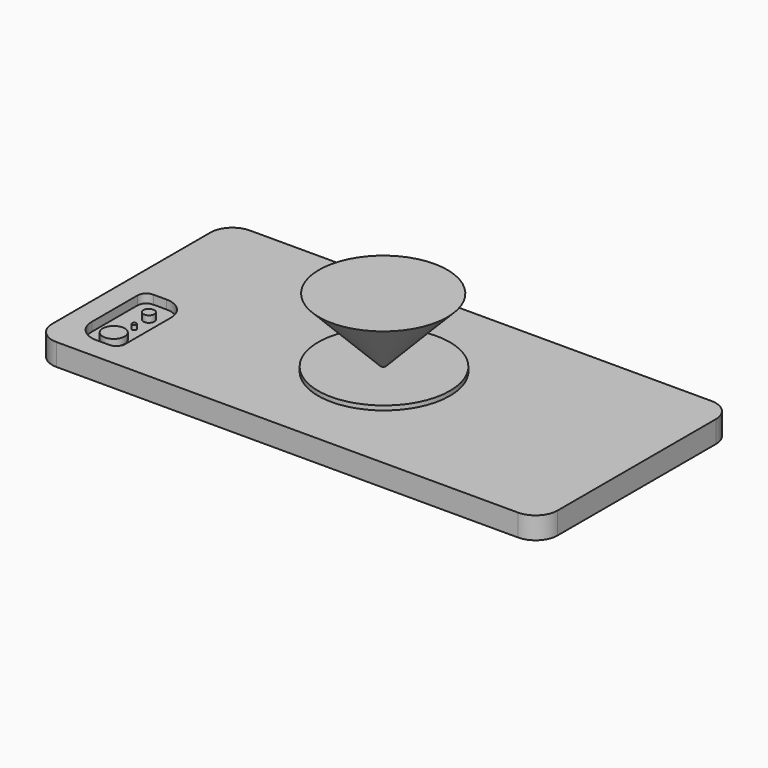
from build123d import *

# Parameters (mm, degrees)
F1_DEPTH = 6.35
F3_DEPTH = 2.54
F4_R     = 3.175
F4_R_2   = 1.5875
F5_DEPTH = 1.905
F6_R     = 0.635
F7_DEPTH = 1.27
F8_R     = 19.05
F9_DEPTH = 1.27


with BuildPart() as f1:
    # F0 (on Top) → F1 (new body)
    with BuildSketch(Plane.XY):
        with BuildLine():
            Line((86.468494, 61.882985), (-46.881506, 61.882985))
            ThreePointArc((-46.881506, 61.882985), (-51.371634, 60.023113), (-53.231506, 55.532985))
            Line((-53.231506, 55.532985), (-53.231506, -1.617015))
            ThreePointArc((-53.231506, -1.617015), (-51.371634, -6.107143), (-46.881506, -7.967015))
            Line((-46.881506, -7.967015), (86.468494, -7.967015))
            ThreePointArc((86.468494, -7.967015), (90.958622, -6.107143), (92.818494, -1.617015))
            Line((92.818494, -1.617015), (92.818494, 55.532985))
            ThreePointArc((92.818494, 55.532985), (90.958622, 60.023113), (86.468494, 61.882985))
        make_face()
    extrude(amount=F1_DEPTH)

    # F2 (on face) → F3 (cut)
    with BuildSketch(Plane.XY.offset(6.35)):
        with BuildLine():
            ThreePointArc((-46.881506, 4.732985), (-45.021634, 0.242857), (-40.531506, -1.617015))
            Line((-40.531506, -1.617015), (-36.721506, -1.617015))
            ThreePointArc((-36.721506, -1.617015), (-34.925455, -0.873067), (-34.181506, 0.922985))
            Line((-34.181506, 0.922985), (-34.181506, 17.432985))
            ThreePointArc((-34.181506, 17.432985), (-36.041378, 21.923113), (-40.531506, 23.782985))
            Line((-40.531506, 23.782985), (-44.341506, 23.782985))
            ThreePointArc((-44.341506, 23.782985), (-46.137557, 23.039036), (-46.881506, 21.242985))
            Line((-46.881506, 21.242985), (-46.881506, 4.732985))
        make_face()
    extrude(amount=-F3_DEPTH, mode=Mode.SUBTRACT)

    # F4 (on face) → F5 (join)
    with BuildSketch(Plane.XY.offset(3.81)):
        with Locations((-40.531506, 4.732985)):
            Circle(F4_R)
        with Locations((-40.531506, 17.432985)):
            Circle(F4_R_2)
    extrude(amount=F5_DEPTH)

    # F6 (on face) → F7 (join)
    with BuildSketch(Plane.XY.offset(3.81)):
        with Locations((-40.258363, 11.830621)):
            Circle(F6_R)
    extrude(amount=F7_DEPTH)

    # F8 (on face) → F9 (join)
    with BuildSketch(Plane.XY.offset(6.35)):
        with Locations((19.793494, 26.957985)):
            Circle(F8_R)
    extrude(amount=F9_DEPTH)

    # F11 (on offset) → F12 (revolve)
    with BuildSketch(Plane.YZ.offset(19.304)):
        Polygon((27.2852, 25.904429), (27.2852, 6.854429), (45.8272, 25.904429), align=None)
    revolve(axis=Axis((19.304, 27.2852, 16.379429), (0, 0, 1)))


solid = f1.part
